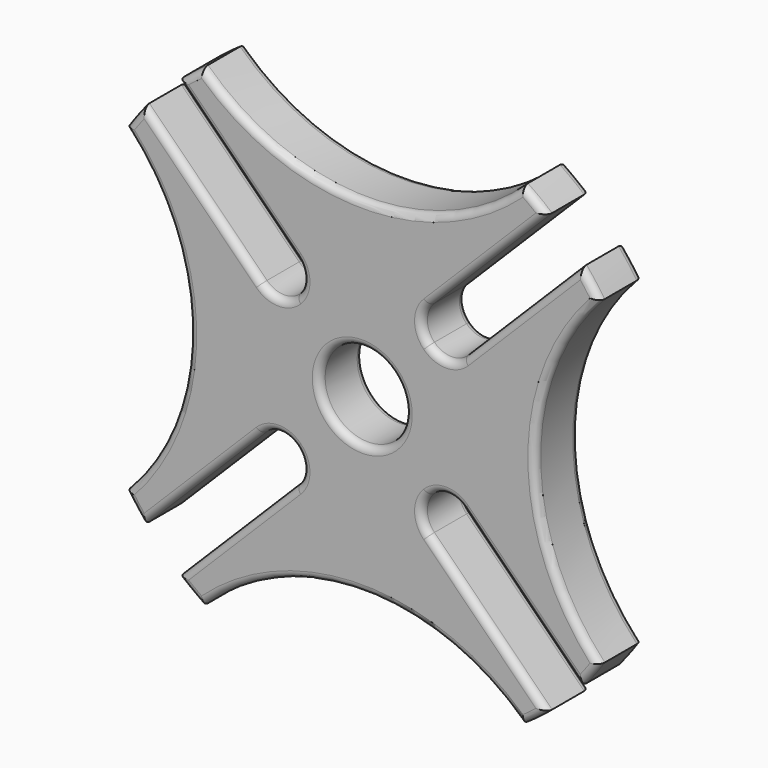
from build123d import *

# Parameters (mm, degrees)
SKETCH016_R             = 20
PAD009_DEPTH            = 3.8
POCKET008_DEPTH         = 113.393063
POCKET008_DEPTH_BACK    = 117.193063
POLARPATTERN004_COUNT   = 4
SKETCH020_R             = 3
POCKET012_DEPTH         = 0.001
POCKET012_DEPTH_BACK    = 3.801
FILLET_R                = 0.5
BODY001_PLACEMENT_ANGLE = 315


with BuildPart() as part:
    # Sketch016 → Pad009 (new body)
    with BuildSketch(Plane.XZ):
        Circle(SKETCH016_R)
    extrude(amount=PAD009_DEPTH)

    # Sketch002 → Pocket008 (cut, two sides)
    with BuildSketch(Plane.XZ) as pocket008_sk:
        with BuildLine():
            Line((1.7, 19.927619), (1.7, 8.284271))
            ThreePointArc((0, 6.584271), (1.202082, 7.08219), (1.7, 8.284271))
            Line((0, 6.584271), (0, 28.284271))
            Line((0, 28.284271), (28.284271, 0))
            Line((6.584271, 0), (28.284271, 0))
            ThreePointArc((8.284271, 1.7), (7.08219, 1.202082), (6.584271, 0))
            Line((19.927619, 1.7), (8.284271, 1.7))
            ThreePointArc((19.927619, 1.7), (19.809209, 2.755947), (19.634885, 3.804115))
            ThreePointArc((3.804115, 19.634885), (8.54487, 8.54487), (19.634885, 3.804115))
            ThreePointArc((3.804115, 19.634885), (2.755947, 19.809209), (1.7, 19.927619))
        make_face()
    pocket008 = extrude(amount=-POCKET008_DEPTH, mode=Mode.SUBTRACT) + extrude(pocket008_sk.sketch, amount=POCKET008_DEPTH_BACK, mode=Mode.SUBTRACT)

    # PolarPattern004: Pocket008 ×4 about axis
    polarpattern004_axis = Axis((0, 0, 0), (0, -1, 0))
    for i in range(1, POLARPATTERN004_COUNT):
        add(pocket008.rotate(polarpattern004_axis, i * 360 / POLARPATTERN004_COUNT), mode=Mode.SUBTRACT)

    # Sketch020 → Pocket012 (cut, two sides)
    with BuildSketch(Plane.XZ) as pocket012_sk:
        Circle(SKETCH020_R)
    extrude(amount=-POCKET012_DEPTH, mode=Mode.SUBTRACT)
    extrude(pocket012_sk.sketch, amount=POCKET012_DEPTH_BACK, mode=Mode.SUBTRACT)

    # Fillet
    fillet_edges = [part.edges().sort_by_distance(p)[0] for p in [
        (7.08219, -3.8, 1.202082),
        (14.105945, -3.8, 1.7),
        (7.08219, -3.8, -1.202082),
        (19.809209, -3.8, 2.755947),
        (14.105945, -3.8, -1.7),
        (8.54487, -3.8, 8.54487),
        (19.809209, -3.8, -2.755947),
        (2.755947, -3.8, 19.809209),
        (8.54487, -3.8, -8.54487),
        (1.7, -3.8, 14.105945),
        (2.755947, -3.8, -19.809209),
        (1.202082, -3.8, 7.08219),
        (1.7, -3.8, -14.105945),
        (-1.202082, -3.8, 7.08219),
        (1.202082, -3.8, -7.08219),
        (-1.7, -3.8, 14.105945),
        (-1.202082, -3.8, -7.08219),
        (-2.755947, -3.8, 19.809209),
        (-1.7, -3.8, -14.105945),
        (-8.54487, -3.8, 8.54487),
        (-2.755947, -3.8, -19.809209),
        (-19.809209, -3.8, 2.755947),
        (-8.54487, -3.8, -8.54487),
        (-14.105945, -3.8, 1.7),
        (-19.809209, -3.8, -2.755947),
        (-7.08219, -3.8, 1.202082),
        (-14.105945, -3.8, -1.7),
        (-7.08219, -3.8, -1.202082),
        (-3, -3.8, 0),
        (7.08219, 0, 1.202082),
        (14.105945, 0, 1.7),
        (7.08219, 0, -1.202082),
        (19.809209, 0, 2.755947),
        (14.105945, 0, -1.7),
        (8.54487, 0, 8.54487),
        (19.809209, 0, -2.755947),
        (2.755947, 0, 19.809209),
        (8.54487, 0, -8.54487),
        (1.7, 0, 14.105945),
        (2.755947, 0, -19.809209),
        (1.202082, 0, 7.08219),
        (1.7, 0, -14.105945),
        (-1.202082, 0, 7.08219),
        (1.202082, 0, -7.08219),
        (-1.7, 0, 14.105945),
        (-1.202082, 0, -7.08219),
        (-2.755947, 0, 19.809209),
        (-1.7, 0, -14.105945),
        (-8.54487, 0, 8.54487),
        (-2.755947, 0, -19.809209),
        (-19.809209, 0, 2.755947),
        (-8.54487, 0, -8.54487),
        (-14.105945, 0, 1.7),
        (-19.809209, 0, -2.755947),
        (-7.08219, 0, 1.202082),
        (-14.105945, 0, -1.7),
        (-7.08219, 0, -1.202082),
        (-3, 0, 0),
    ]]
    fillet(fillet_edges, radius=FILLET_R)


with BuildPart() as part_1:
    # Body001 placement: moved
    add(part.part.moved(Location((0, -5.2, 28.28))).rotate(Axis((0, -5.2, 28.28), (0, 1, 0)), BODY001_PLACEMENT_ANGLE))


solid = part_1.part
